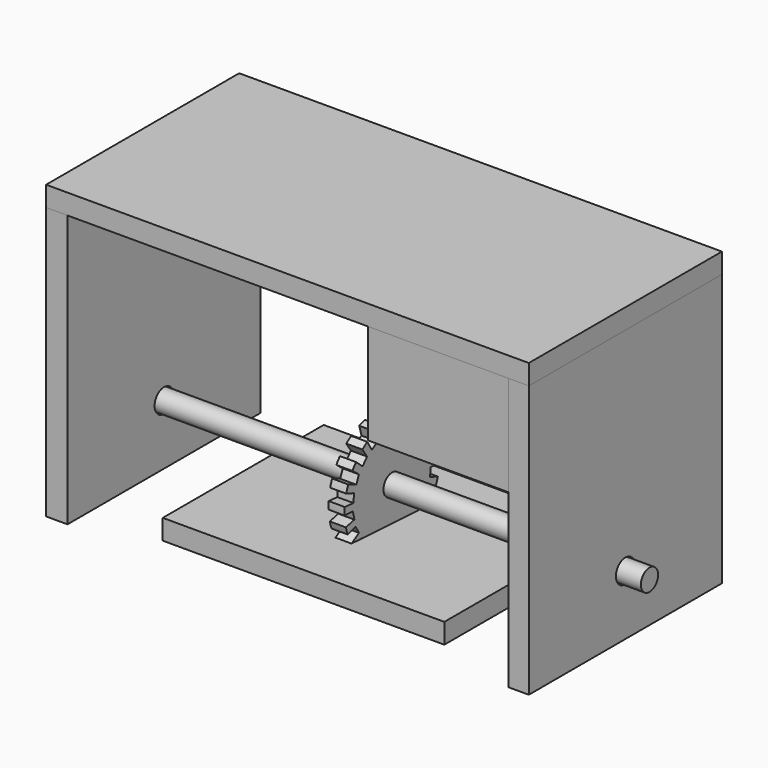
from build123d import *

# Parameters (mm, degrees)
F1_DEPTH  = 85.852
F0_W      = 6.35
F0_H      = 76.2
F2_DEPTH  = 6.35
F3_R      = 3.7374673342
F4_DEPTH  = 127
F5_W      = 44.45
F5_H      = 76.071806252
F6_DEPTH  = 31.75
F7_R      = 3.3908828081
F8_DEPTH  = 83.82
F10_W     = 63.5
F10_H     = 6.35
F11_DEPTH = 44.45
F13_DEPTH = 2.54


with BuildPart() as f1:
    # F0 (on Top) → F1 (new body)
    with BuildSketch(Plane.XY):
        Polygon((-69.4388685358, 38.1), (-69.85, 38.1), (-76.2, 38.1), (-76.2, -38.1), (-69.4388685358, -38.1), align=None)
    extrude(amount=-F1_DEPTH)


with BuildPart() as f1b:
    # F0 (on Top) → F1, piece 2 (new body)
    with BuildSketch(Plane.XY):
        with Locations((73.025, 0)):
            Rectangle(F0_W, F0_H)
    extrude(amount=-F1_DEPTH)


with BuildPart() as f2:
    # F0 (on Top) → F2 (new body)
    with BuildSketch(Plane.XY):
        Polygon((-69.4388685358, 38.1), (-69.85, 38.1), (-76.2, 38.1), (-76.2, -38.1), (-69.4388685358, -38.1), align=None)
        Polygon((-58.42, 38.1), (-69.4388685358, 38.1), (-69.4388685358, -38.1), (58.42, -38.1), (69.85, -38.1), (69.85, 38.1), (69.4388685358, 38.1), align=None)
        with Locations((73.025, 0)):
            Rectangle(F0_W, F0_H)
    extrude(amount=F2_DEPTH)


with BuildPart() as f4_tool:
    # F3 (on Right) → F4 (new body, symmetric)
    with BuildSketch(Plane.YZ):
        with Locations((0, -66.9054239988)):
            Circle(F3_R)
    extrude(amount=F4_DEPTH, both=True)


with BuildPart() as f1_1:
    add(f1.part)

    # F4: cut by f4_tool
    add(f4_tool.part, mode=Mode.SUBTRACT)


with BuildPart() as f1b_1:
    add(f1b.part)

    # F4: cut by f4_tool
    add(f4_tool.part, mode=Mode.SUBTRACT)


with BuildPart() as f6:
    # F5 (on Top) → F6 (new body)
    with BuildSketch(Plane.XY):
        with Locations((47.62501266, 0.0641494989)):
            Rectangle(F5_W, F5_H)
    extrude(amount=-F6_DEPTH)


with BuildPart() as f8:
    # F7 (on Right) → F8 (new body)
    with BuildSketch(Plane.YZ):
        with Locations((0, -66.9018488586)):
            Circle(F7_R)
    extrude(amount=F8_DEPTH)

    # F9: F8 across plane


with BuildPart() as f8_1:
    add(f8.part)
    add(f8.part.mirror(Plane.YZ))

    # F12 (on Right) → F13 (join, symmetric)
    with BuildSketch(Plane.YZ):
        with BuildLine():
            Line((14.1150064256, -72.8721348006), (17.2951930421, -74.2165740308))
            ThreePointArc((17.2951930421, -74.2165740308), (17.7145138023, -73.1120926095), (18.0633819527, -71.98337647))
            Line((18.0633819527, -71.98337647), (15.0053404351, -70.8707868344))
            Line((15.0053404351, -70.8707868344), (15.2330272054, -68.2238629194))
            Line((15.2330272054, -68.2238629194), (18.6730189801, -68.5197689002))
            ThreePointArc((18.6730189801, -68.5197689002), (18.7305131923, -67.3397674063), (18.7135140511, -66.1584883795))
            Line((18.7135140511, -66.1584883795), (15.4613346335, -66.0453395551))
            Line((15.4613346335, -66.0453395551), (14.8599331476, -63.4576062361))
            Line((14.8599331476, -63.4576062361), (18.2229997177, -62.6760136285))
            ThreePointArc((18.2229997177, -62.6760136285), (17.9130394479, -61.5359988299), (17.5318370095, -60.4177887374))
            Line((17.5318370095, -60.4177887374), (14.4038656726, -61.3151565194))
            Line((14.4038656726, -61.3151565194), (13.0322452981, -59.0399191636))
            Line((13.0322452981, -59.0399191636), (15.9891862759, -57.2573356977))
            ThreePointArc((15.9891862759, -57.2573356977), (15.3421125949, -56.2689001857), (14.63402161, -55.3232172224))
            Line((14.63402161, -55.3232172224), (11.9364459821, -57.143261))
            Line((11.9364459821, -57.143261), (9.9288704778, -55.4032356922))
            Line((9.9288704778, -55.4032356922), (12.1902398782, -52.7941530576))
            ThreePointArc((12.1902398782, -52.7941530576), (11.2693928663, -52.054051787), (10.303726214, -51.3734659904))
            Line((10.303726214, -51.3734659904), (8.3006037927, -53.9380271976))
            Line((8.3006037927, -53.9380271976), (5.8535886366, -52.9035397384))
            Line((5.8535886366, -52.9035397384), (7.1980278668, -49.7233531219))
            ThreePointArc((7.1980278668, -49.7233531219), (6.0935464454, -49.3040323618), (4.9648303059, -48.9551642114))
            Line((4.9648303059, -48.9551642114), (3.8522406703, -52.013205729))
            Line((3.8522406703, -52.013205729), (1.2053167553, -51.7855189586))
            Line((1.2053167553, -51.7855189586), (1.5012227362, -48.345527184))
            ThreePointArc((1.5012227362, -48.345527184), (0.3212212423, -48.2880329717), (-0.8600577845, -48.3050321129))
            Line((-0.8600577845, -48.3050321129), (-0.9732066089, -51.5572115305))
            Line((-0.9732066089, -51.5572115305), (-3.5609399279, -52.1586130164))
            Line((-3.5609399279, -52.1586130164), (-4.3425325355, -48.7955464463))
            ThreePointArc((-4.3425325355, -48.7955464463), (-5.4825473341, -49.1055067161), (-6.6007574266, -49.4867091545))
            Line((-6.6007574266, -49.4867091545), (-5.7033896446, -52.6146804914))
            Line((-5.7033896446, -52.6146804914), (-7.9786270005, -53.9863008659))
            Line((-7.9786270005, -53.9863008659), (-9.7612104664, -51.0293598881))
            ThreePointArc((-9.7612104664, -51.0293598881), (-10.7496459783, -51.6764335691), (-11.6953289416, -52.3845245541))
            Line((-11.6953289416, -52.3845245541), (-9.875285164, -55.082100182))
            Line((-9.875285164, -55.082100182), (-11.6153104718, -57.0896756863))
            Line((-11.6153104718, -57.0896756863), (-14.2243931064, -54.8283062859))
            ThreePointArc((-14.2243931064, -54.8283062859), (-14.964494377, -55.7491532978), (-15.6450801737, -56.71481995))
            Line((-15.6450801737, -56.71481995), (-13.0805189664, -58.7179423714))
            Line((-13.0805189664, -58.7179423714), (-14.1150064256, -61.1649575274))
            Line((-14.1150064256, -61.1649575274), (-17.2951930421, -59.8205182973))
            ThreePointArc((-17.2951930421, -59.8205182973), (-17.7145138023, -60.9249997186), (-18.0633819527, -62.0537158581))
            Line((-18.0633819527, -62.0537158581), (-15.0053404351, -63.1663054937))
            Line((-15.0053404351, -63.1663054937), (-15.2330272054, -65.8132294087))
            Line((-15.2330272054, -65.8132294087), (-18.6730189801, -65.5173234279))
            ThreePointArc((-18.6730189801, -65.5173234279), (-18.7305131923, -66.6973249217), (-18.7135140511, -67.8786039485))
            Line((-18.7135140511, -67.8786039485), (-15.4613346335, -67.991752773))
            Line((-15.4613346335, -67.991752773), (-14.8599331476, -70.5794860919))
            Line((-14.8599331476, -70.5794860919), (-18.2229997177, -71.3610786995))
            ThreePointArc((-18.2229997177, -71.3610786995), (-17.9130394479, -72.5010934982), (-17.5318370095, -73.6193035907))
            Line((-17.5318370095, -73.6193035907), (-14.4038656726, -72.7219358087))
            Line((-14.4038656726, -72.7219358087), (-13.0322452981, -74.9971731645))
            Line((-13.0322452981, -74.9971731645), (-15.9891862759, -76.7797566304))
            add(Edge.make_bspline(
                [(-12.0970000102, -77.002156506), (-13.4939239336, -76.9222965336), (-14.803098612, -76.8474854858), (-15.9891862759, -76.7797566304)],
                knots=[26.388656093, 26.388656093, 26.388656093, 26.388656093, 30.8115966534, 30.8115966534, 30.8115966534, 30.8115966534], degree=3))
            Line((-12.0970000102, -77.002156506), (-11.9364459821, -76.8938313281))
            Line((-11.9364459821, -76.8938313281), (-11.7913003112, -77.0196333914))
            add(Edge.make_bspline(
                [(10.4499796414, -78.2919313561), (3.6723046356, -77.9044311531), (-5.0374319065, -77.4057638079), (-11.7913003112, -77.0196333914)],
                knots=[4.8738978558, 4.8738978558, 4.8738978558, 4.8738978558, 26.0674714523, 26.0674714523, 26.0674714523, 26.0674714523], degree=3))
            Line((10.4499796414, -78.2919313561), (11.6153104718, -76.9474166418))
            Line((11.6153104718, -76.9474166418), (13.3583480911, -78.4581591088))
            add(Edge.make_bspline(
                [(14.7721507303, -78.5389137943), (14.3182491315, -78.5129947693), (13.8463214198, -78.4860385562), (13.3583480911, -78.4581591088)],
                knots=[0, 0, 0, 0, 1.6926065863, 1.6926065863, 1.6926065863, 1.6926065863], degree=3))
            ThreePointArc((14.7721507303, -78.5389137943), (15.1815522293, -77.909477064), (15.5912986716, -77.2802648281))
            Line((15.5912986715, -77.2802648282), (13.0805189664, -75.3191499567))
            Line((13.0805189664, -75.3191499567), (14.1150064256, -72.8721348006))
        make_face()
    extrude(amount=F13_DEPTH, both=True)


with BuildPart() as f11:
    # F10 (on Right) → F11 (new body, symmetric)
    with BuildSketch(Plane.YZ):
        with Locations((0, -81.6723555326)):
            Rectangle(F10_W, F10_H)
    extrude(amount=F11_DEPTH, both=True)


solid = Compound([f2.part, f1_1.part, f1b_1.part, f6.part, f8_1.part, f11.part])
